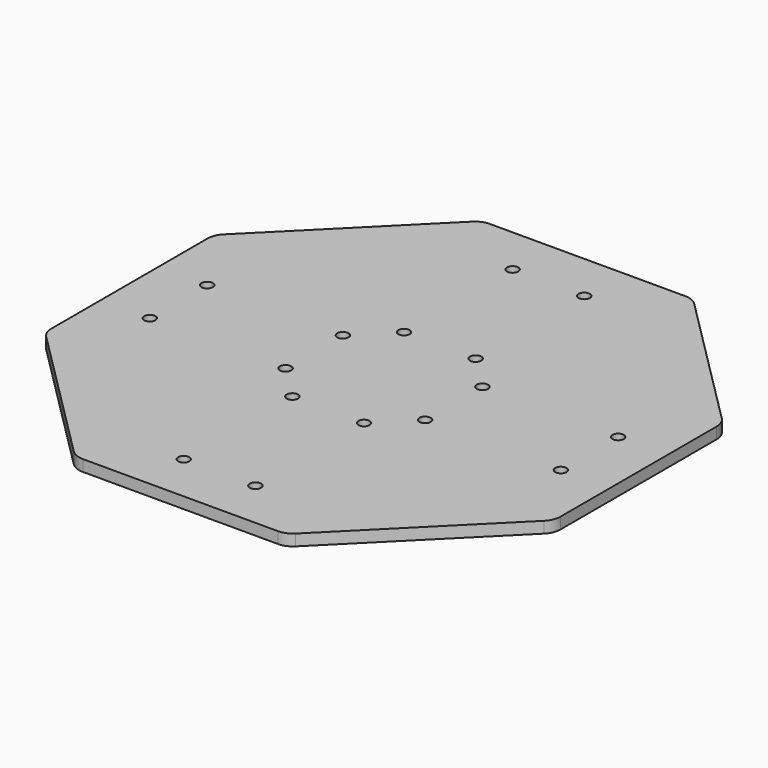
from build123d import *

# Parameters (mm, degrees)
F0_R     = 1.5
F1_DEPTH = 3
F2_R     = 5


with BuildPart() as f1:
    # F0 (on Top) → F1 (new body)
    with BuildSketch(Plane.XY):
        Polygon((67.5, 27.96), (27.96, 67.5), (-27.96, 67.5), (-67.5, 27.96), (-67.5, -27.96), (-27.96, -67.5), (27.96, -67.5), (67.5, -27.96), align=None)
        with Locations((-9.5, -54.5)):
            Circle(F0_R, mode=Mode.SUBTRACT)
        with Locations((-54.5, -9.5)):
            Circle(F0_R, mode=Mode.SUBTRACT)
        with Locations((-9.5, -18.5)):
            Circle(F0_R, mode=Mode.SUBTRACT)
        with Locations((-18.5, -9.5)):
            Circle(F0_R, mode=Mode.SUBTRACT)
        with Locations((9.5, -54.5)):
            Circle(F0_R, mode=Mode.SUBTRACT)
        with Locations((9.5, -18.5)):
            Circle(F0_R, mode=Mode.SUBTRACT)
        with Locations((18.5, -9.5)):
            Circle(F0_R, mode=Mode.SUBTRACT)
        with Locations((54.5, -9.5)):
            Circle(F0_R, mode=Mode.SUBTRACT)
        with Locations((-54.5, 9.5)):
            Circle(F0_R, mode=Mode.SUBTRACT)
        with Locations((-18.5, 9.5)):
            Circle(F0_R, mode=Mode.SUBTRACT)
        with Locations((-9.5, 18.5)):
            Circle(F0_R, mode=Mode.SUBTRACT)
        with Locations((-9.5, 54.5)):
            Circle(F0_R, mode=Mode.SUBTRACT)
        with Locations((18.5, 9.5)):
            Circle(F0_R, mode=Mode.SUBTRACT)
        with Locations((9.5, 18.5)):
            Circle(F0_R, mode=Mode.SUBTRACT)
        with Locations((54.5, 9.5)):
            Circle(F0_R, mode=Mode.SUBTRACT)
        with Locations((9.5, 54.5)):
            Circle(F0_R, mode=Mode.SUBTRACT)
    extrude(amount=F1_DEPTH)

    # F2
    f2_edges = [f1.edges().sort_by_distance(p)[0] for p in [
        (-27.96, 67.5, 1.5),
        (-67.5, 27.96, 1.5),
        (-67.5, -27.96, 1.5),
        (-27.96, -67.5, 1.5),
        (27.96, -67.5, 1.5),
        (67.5, -27.96, 1.5),
        (67.5, 27.96, 1.5),
        (27.96, 67.5, 1.5),
    ]]
    fillet(f2_edges, radius=F2_R)


solid = f1.part
